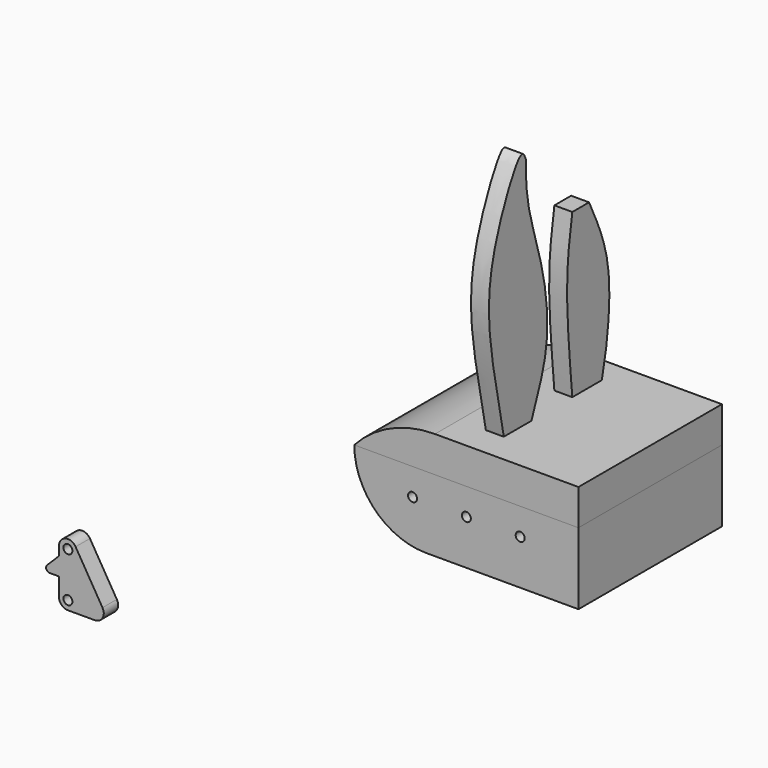
from build123d import *

# Parameters (mm, degrees)
F0_W           = 125
F0_H           = 100
F0_W_2         = 105
F0_H_2         = 80
F1_DEPTH       = 30
F2_R           = 2.5
F3_DEPTH       = 100.001
F4_W           = 125
F4_H           = 100
F4_W_2         = 105
F4_H_2         = 80
F5_DEPTH       = 10
F7_DEPTH       = 6666
F9_DEPTH       = 83.4
F10_W          = 80
F10_H          = 20
F11_DEPTH      = 100
F15_DEPTH      = 10
F17_DEPTH      = 40
F17_DEPTH_BACK = 40
F18_R          = 2.5
F19_DEPTH      = 10
F21_DEPTH      = 10
F22_W          = 11.9066902784
F22_H          = 2
F22_W_2        = 5.1715728753
F22_W_3        = 11.2758645205
F23_DEPTH      = 25


with BuildPart() as f1:
    # F0 (on Top) → F1 (new body)
    with BuildSketch(Plane.XY):
        with Locations((62.5, 50)):
            Rectangle(F0_W, F0_H)
        with Locations((62.5, 50)):
            Rectangle(F0_W_2, F0_H_2, mode=Mode.SUBTRACT)
    extrude(amount=F1_DEPTH)

    # F2 (on face) → F3 (cut, through all)
    with BuildSketch(Plane.XZ):
        with Locations((32.5, 15)):
            Circle(F2_R)
        with Locations((62.5, 15)):
            Circle(F2_R)
        with Locations((92.5, 15)):
            Circle(F2_R)
    extrude(amount=-F3_DEPTH, mode=Mode.SUBTRACT)

    # F4 (on face) → F5 (join)
    with BuildSketch(Plane(origin=(0, 0, 0), x_dir=(1, 0, 0), z_dir=(0, 0, -1))):
        with Locations((62.5, -50)):
            Rectangle(F4_W, F4_H)
        with Locations((62.5, -50)):
            Rectangle(F4_W_2, F4_H_2, mode=Mode.SUBTRACT)
        with Locations((62.5, -50)):
            Rectangle(F4_W_2, F4_H_2)
    extrude(amount=F5_DEPTH)

    # F6 (on face) → F7 (cut)
    with BuildSketch(Plane.XZ):
        Polygon((0, -10), (0, 30), (-36.8616729975, 33.3101339638), (-29.7704413533, -57.1963898838), (40, -10), align=None)
        with BuildLine():
            ThreePointArc((40, -10), (11.7157287525, 1.7157287525), (0, 30))
            Line((0, 30), (0, -10))
            Line((0, -10), (40, -10))
        make_face()
    extrude(amount=-F7_DEPTH, mode=Mode.SUBTRACT)

    # F8 (on face) → F9 (join)
    with BuildSketch(Plane.XZ.offset(-90)):
        with BuildLine():
            Line((10, 30), (10, 3.5424868894))
            ThreePointArc((10, 3.5424868894), (11.7157287525, 1.7157287525), (13.5424868894, 0))
            Line((13.5424868894, 0), (40, 0))
            ThreePointArc((40, 0), (18.7867965644, 8.7867965644), (10, 30))
        make_face()
    extrude(amount=F9_DEPTH)


with BuildPart() as f11:
    # F10 (on face) → F11 (new body)
    with BuildSketch(Plane.XZ):
        with BuildLine():
            Line((0, 30), (45, 30))
            Line((45, 30), (45, 50))
            ThreePointArc((45, 50), (20.3778554955, 44.7748251351), (0, 30))
        make_face()
        with Locations((85, 40)):
            Rectangle(F10_W, F10_H)
    extrude(amount=-F11_DEPTH)

    # F14 (on offset) → F15 (join)
    with BuildSketch(Plane.YZ.offset(60)):
        with BuildLine():
            Line((64.4753500819, 49.8327091336), (85.0027536981, 49.8327091336))
            add(Edge.make_bspline(
                [(85.0027536981, 49.8327091336), (86.1665383789, 54.7384858339), (89.0602060082, 67.0907089545), (92.6809583428, 106.7258604967), (81.6452944269, 129.5412851185), (76.1444941163, 140.9089565277)],
                knots=[0, 0, 0, 0, 0.2505763425, 0.6259139796, 1, 1, 1, 1], degree=3))
            Line((76.1444941163, 140.9089565277), (64.4753500819, 140.9089565277))
            add(Edge.make_bspline(
                [(64.4753500819, 140.9089565277), (63.0385344229, 131.9328773477), (60.0835105921, 113.4722434338), (61.3578321961, 82.6051306794), (63.4232718078, 60.892518239), (64.4753500819, 49.8327091336)],
                knots=[0, 0, 0, 0, 0.3170912381, 0.6521450118, 1, 1, 1, 1], degree=3))
        make_face()
        with BuildLine():
            Line((16.7012212295, 50), (36.0381749595, 50))
            add(Edge.make_bspline(
                [(36.0381749595, 50), (39.9439264096, 60.5788452322), (48.8842587835, 79.1577540087), (45.9418389645, 119.6915304439), (32.2516183868, 155.6878532796), (32.1214988224, 172.4366188097), (32.0729725063, 179.9233108759)],
                knots=[0, 0, 0, 0, 0.2446036002, 0.518483464, 0.7891223984, 1, 1, 1, 1], degree=3))
            add(Edge.make_bspline(
                [(16.7012212295, 50), (12.8164200839, 69.7679192689), (5.1557437253, 103.0165449914), (6.3359006778, 143.1855642768), (28.4164917181, 189.4002776519), (31.3234141752, 181.8729274365), (32.0729725063, 179.9233108759)],
                knots=[0, 0, 0, 0, 0.3260645241, 0.6228520483, 0.9048596934, 1, 1, 1, 1], degree=3))
        make_face()
    extrude(amount=F15_DEPTH)


with BuildPart() as f17_tool:
    # F16 (on offset) → F17 (new body, two sides)
    with BuildSketch(Plane.XZ.offset(-50)) as f17_sk:
        with BuildLine():
            Line((120, 45), (45, 45))
            ThreePointArc((45, 45), (24.5746472766, 41.1142074845), (7.003, 29.9997291191))
            Line((7.003, 29.9997291191), (120, 29.9997291191))
            Line((120, 29.9997291191), (120, 45))
        make_face()
    extrude(amount=-F17_DEPTH)
    extrude(f17_sk.sketch, amount=F17_DEPTH_BACK)


with BuildPart() as f1_1:
    add(f1.part)

    # F17: cut by f17_tool
    add(f17_tool.part, mode=Mode.SUBTRACT)


with BuildPart() as f11_1:
    add(f11.part)

    # F17: cut by f17_tool
    add(f17_tool.part, mode=Mode.SUBTRACT)


with BuildPart() as f19:
    # F18 (on Front) → F19 (new body)
    with BuildSketch(Plane.XZ):
        with BuildLine():
            ThreePointArc((-147.3962509632, -63.8523980975), (-153.0183835013, -61.6063022336), (-156.6837155918, -66.4248768747))
            Line((-156.6837155918, -66.4248768747), (-156.6837155918, -91.4248768747))
            ThreePointArc((-156.6837155918, -91.4248768747), (-155.2192494977, -94.9604107806), (-151.6837155918, -96.4248768747))
            Line((-151.6837155918, -96.4248768747), (-136.6837155918, -96.4248768747))
            ThreePointArc((-136.6837155918, -96.4248768747), (-132.332716058, -93.8883709496), (-132.3962509632, -88.8523980975))
            Line((-132.3962509632, -88.8523980975), (-147.3962509632, -63.8523980975))
        make_face()
        with Locations((-151.6837155918, -91.4248768747)):
            Circle(F18_R, mode=Mode.SUBTRACT)
        with Locations((-151.6837155918, -66.4248768747)):
            Circle(F18_R, mode=Mode.SUBTRACT)
    extrude(amount=F19_DEPTH)

    # F20 (on face) → F21 (join)
    with BuildSketch(Plane.XZ.offset(10)):
        with BuildLine():
            Line((-156.6837155918, -81.4248768747), (-156.6837155918, -71.4248768747))
            Line((-156.6837155918, -71.4248768747), (-163.2695020294, -78.0106633123))
            ThreePointArc((-163.2695020294, -78.0106633123), (-163.7030475321, -80.1902437394), (-161.855288467, -81.4248768747))
            Line((-161.855288467, -81.4248768747), (-156.6837155918, -81.4248768747))
        make_face()
    extrude(amount=-F21_DEPTH)

    # F22 (on face) → F23 (cut)
    with BuildSketch(Plane(origin=(0, 0, -81.4248768747), x_dir=(1, 0, 0), z_dir=(0, 0, -1))):
        with Locations((-167.8086336062, 7)):
            Rectangle(F22_W, F22_H)
        with Locations((-159.2695020294, 3)):
            Rectangle(F22_W_2, F22_H)
        with Locations((-159.2695020294, 7)):
            Rectangle(F22_W_2, F22_H)
        with Locations((-167.4932207273, 3)):
            Rectangle(F22_W_3, F22_H)
    extrude(amount=-F23_DEPTH, mode=Mode.SUBTRACT)


solid = Compound([f1_1.part, f11_1.part, f19.part])
